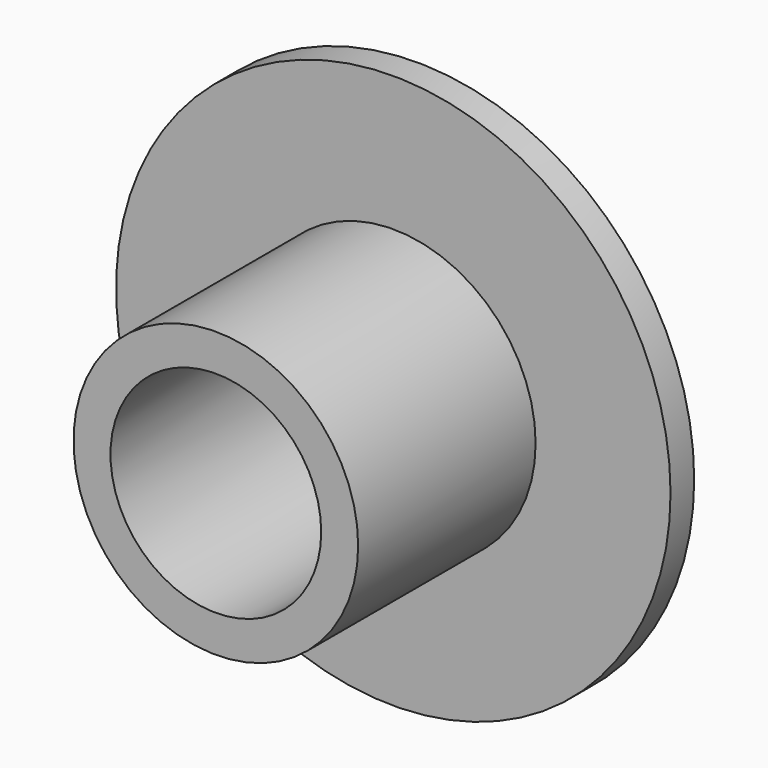
from build123d import *

# Parameters (mm, degrees)
F0_R     = 7.5
F1_DEPTH = 0.8
F3_R     = 3.85
F3_R_2   = 2.85
F4_DEPTH = 6


with BuildPart() as f1:
    # F0 (on Front) → F1 (new body)
    with BuildSketch(Plane.XZ):
        Circle(F0_R)
    extrude(amount=F1_DEPTH)

    # F3 (on face) → F4 (join)
    with BuildSketch(Plane.XZ.offset(0.8)):
        Circle(F3_R)
        Circle(F3_R_2, mode=Mode.SUBTRACT)
    extrude(amount=F4_DEPTH)


solid = f1.part
